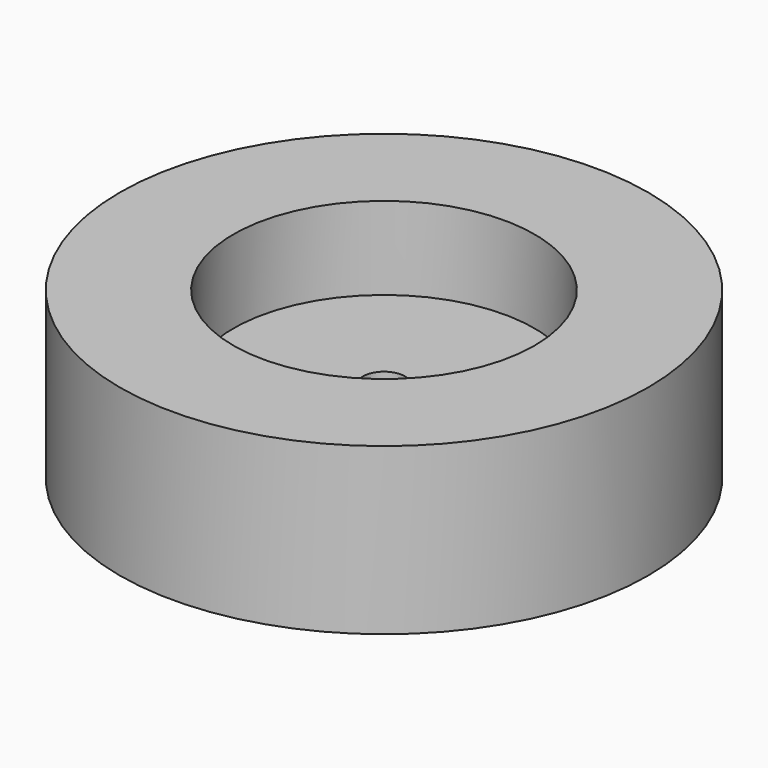
from build123d import *

# Parameters (mm, degrees)
F0_R     = 39.624
F0_R_2   = 5.500002
F1_DEPTH = 12.7
F2_R     = 69.469
F2_R_2   = 39.624
F3_DEPTH = 21.7805
F5_DEPTH = 45.212


with BuildPart() as f1:
    # F0 (on Top) → F1 (new body)
    with BuildSketch(Plane.XY):
        Circle(F0_R)
        Circle(F0_R_2, mode=Mode.SUBTRACT)
    extrude(amount=F1_DEPTH)

    # F2 (on face) → F3 (join, symmetric)
    with BuildSketch(Plane.XY.offset(12.7)):
        Circle(F2_R)
        Circle(F2_R_2, mode=Mode.SUBTRACT)
    extrude(amount=F3_DEPTH, both=True)

    # F4 (on face) → F5 (cut)
    with BuildSketch(Plane.XY.offset(12.7)):
        Polygon((21.139988, -4.44315), (26.270496, -4.44315), (28.83575, 0), (26.270496, 4.44315), (21.139988, 4.44315), (18.574734, 0), align=None)
    extrude(amount=-F5_DEPTH, mode=Mode.SUBTRACT)


solid = f1.part
